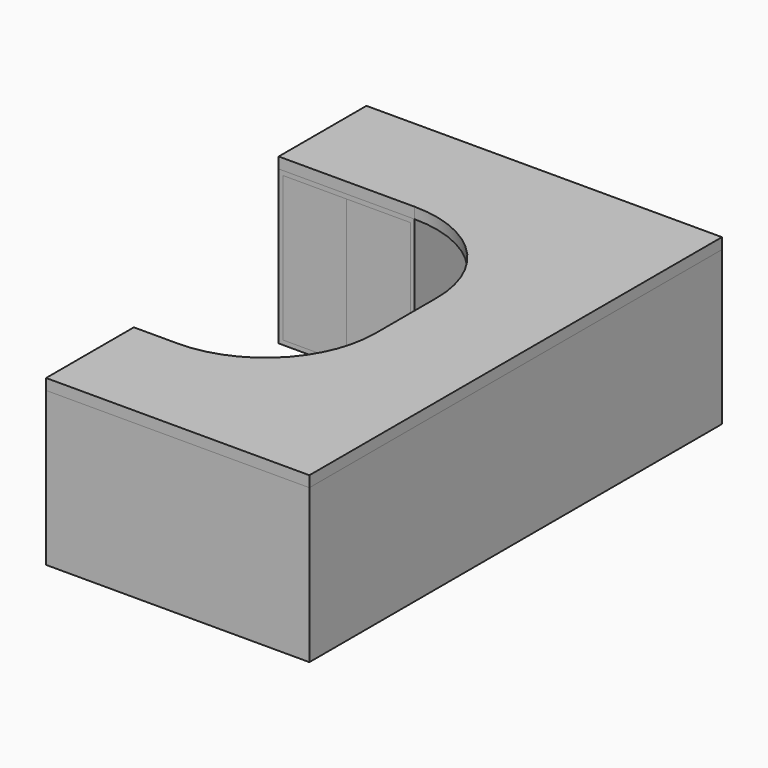
from build123d import *

# Parameters (mm, degrees)
F0_W      = 20
F0_H      = 980
F0_W_2    = 480
F0_H_2    = 350
F1_DEPTH  = 700
F2_START  = 700
F2_DEPTH  = 50
F3_W      = 310
F3_H      = 150
F4_DEPTH  = 480
F5_W      = 290
F5_H      = 660
F6_DEPTH  = 480
F7_W      = 460
F7_H      = 206.6666666667
F8_DEPTH  = 180
F9_DEPTH  = 480
F10_DEPTH = 20
F11_DEPTH = 20
F12_W     = 100
F12_H     = 10
F13_DEPTH = 480


with BuildPart() as f1:
    # F0 (on Top) → F1 (new body)
    with BuildSketch(Plane.XY):
        Polygon((1620, -1175), (1620, -1155), (1600, -1155), (620, -1155), (620, -1175), align=None)
        with Locations((1610, -665)):
            Rectangle(F0_W, F0_H)
        with Locations((1360, 0)):
            Rectangle(F0_W_2, F0_H_2)
        with Locations((1610, 0)):
            Rectangle(F0_W, F0_H_2)
        with Locations((1610, 665)):
            Rectangle(F0_W, F0_H)
        Polygon((620, 1175), (0, 1175), (0, 675), (620, 675), (620, 1155), align=None)
        Polygon((1620, 1175), (620, 1175), (620, 1155), (1600, 1155), (1620, 1155), align=None)
        Polygon((620, -1155), (620, -675), (420, -675), (420, -1175), (620, -1175), align=None)
    extrude(amount=F1_DEPTH)

    # F3 (on face) → F4 (cut, through all)
    with BuildSketch(Plane(origin=(1120, 0, 0), x_dir=(0, -1, 0), z_dir=(-1, 0, 0))):
        with Locations((0, 605)):
            Rectangle(F3_W, F3_H)
        with Locations((0, 435)):
            Rectangle(F3_W, F3_H)
        with Locations((0, 265)):
            Rectangle(F3_W, F3_H)
        with Locations((0, 95)):
            Rectangle(F3_W, F3_H)
    extrude(amount=-F4_DEPTH, mode=Mode.SUBTRACT)

    # F5 (on face) → F6 (cut, through all)
    with BuildSketch(Plane.XZ.offset(-675)):
        with Locations((165, 350)):
            Rectangle(F5_W, F5_H)
        with Locations((455, 350)):
            Rectangle(F5_W, F5_H)
    extrude(amount=-F6_DEPTH, mode=Mode.SUBTRACT)

    # F7 (on face) → F8 (cut, through all)
    with BuildSketch(Plane(origin=(420, 0, 0), x_dir=(0, -1, 0), z_dir=(-1, 0, 0))):
        with Locations((925, 576.6666666667)):
            Rectangle(F7_W, F7_H)
        with Locations((925, 350)):
            Rectangle(F7_W, F7_H)
        with Locations((925, 123.3333333333)):
            Rectangle(F7_W, F7_H)
    extrude(amount=-F8_DEPTH, mode=Mode.SUBTRACT)


with BuildPart() as f2:
    # F0 (on Top) → F2 (new body)
    with BuildSketch(Plane.XY.offset(F2_START)):
        Polygon((620, 1175), (0, 1175), (0, 675), (620, 675), (620, 1155), align=None)
        Polygon((1620, 1175), (620, 1175), (620, 1155), (1600, 1155), (1620, 1155), align=None)
        with BuildLine():
            Line((1600, 1155), (620, 1155))
            Line((620, 1155), (620, 675))
            ThreePointArc((620, 675), (973.5533905933, 528.5533905933), (1120, 175))
            Line((1120, 175), (1600, 175))
            Line((1600, 175), (1600, 1155))
        make_face()
        with Locations((1610, 665)):
            Rectangle(F0_W, F0_H)
        with Locations((1610, 0)):
            Rectangle(F0_W, F0_H_2)
        with Locations((1360, 0)):
            Rectangle(F0_W_2, F0_H_2)
        with Locations((1610, -665)):
            Rectangle(F0_W, F0_H)
        Polygon((1620, -1175), (1620, -1155), (1600, -1155), (620, -1155), (620, -1175), align=None)
        with BuildLine():
            Line((1600, -175), (1120, -175))
            ThreePointArc((1120, -175), (973.5533905933, -528.5533905933), (620, -675))
            Line((620, -675), (620, -1155))
            Line((620, -1155), (1600, -1155))
            Line((1600, -1155), (1600, -175))
        make_face()
        Polygon((620, -1155), (620, -675), (420, -675), (420, -1175), (620, -1175), align=None)
    extrude(amount=F2_DEPTH)


with BuildPart() as f9:
    # F3 (on face) → F9 (new body, through all)
    with BuildSketch(Plane(origin=(1120, 0, 0), x_dir=(0, -1, 0), z_dir=(-1, 0, 0))):
        with Locations((0, 605)):
            Rectangle(F3_W, F3_H)
    extrude(amount=-F9_DEPTH)


with BuildPart() as f9b:
    # F3 (on face) → F9, piece 2 (new body, through all)
    with BuildSketch(Plane(origin=(1120, 0, 0), x_dir=(0, -1, 0), z_dir=(-1, 0, 0))):
        with Locations((0, 435)):
            Rectangle(F3_W, F3_H)
    extrude(amount=-F9_DEPTH)


with BuildPart() as f9c:
    # F3 (on face) → F9, piece 3 (new body, through all)
    with BuildSketch(Plane(origin=(1120, 0, 0), x_dir=(0, -1, 0), z_dir=(-1, 0, 0))):
        with Locations((0, 265)):
            Rectangle(F3_W, F3_H)
    extrude(amount=-F9_DEPTH)


with BuildPart() as f9d:
    # F3 (on face) → F9, piece 4 (new body, through all)
    with BuildSketch(Plane(origin=(1120, 0, 0), x_dir=(0, -1, 0), z_dir=(-1, 0, 0))):
        with Locations((0, 95)):
            Rectangle(F3_W, F3_H)
    extrude(amount=-F9_DEPTH)


with BuildPart() as f10:
    # F5 (on face) → F10 (new body)
    with BuildSketch(Plane.XZ.offset(-675)):
        with Locations((165, 350)):
            Rectangle(F5_W, F5_H)
    extrude(amount=-F10_DEPTH)


with BuildPart() as f11:
    # F5 (on face) → F11 (new body)
    with BuildSketch(Plane.XZ.offset(-675)):
        with Locations((455, 350)):
            Rectangle(F5_W, F5_H)
    extrude(amount=-F11_DEPTH)


with BuildPart() as f13_tool:
    # F12 (on face) → F13 (new body, through all)
    with BuildSketch(Plane(origin=(1120, 0, 0), x_dir=(0, -1, 0), z_dir=(-1, 0, 0))):
        with Locations((0, 655)):
            Rectangle(F12_W, F12_H)
        with Locations((0, 485)):
            Rectangle(F12_W, F12_H)
        with Locations((0, 315)):
            Rectangle(F12_W, F12_H)
        with Locations((0, 145)):
            Rectangle(F12_W, F12_H)
    extrude(amount=-F13_DEPTH)


with BuildPart() as f9_1:
    add(f9.part)

    # F13: cut by f13_tool
    add(f13_tool.part, mode=Mode.SUBTRACT)


with BuildPart() as f9b_1:
    add(f9b.part)

    # F13: cut by f13_tool
    add(f13_tool.part, mode=Mode.SUBTRACT)


with BuildPart() as f9c_1:
    add(f9c.part)

    # F13: cut by f13_tool
    add(f13_tool.part, mode=Mode.SUBTRACT)


with BuildPart() as f9d_1:
    add(f9d.part)

    # F13: cut by f13_tool
    add(f13_tool.part, mode=Mode.SUBTRACT)


solid = Compound([f1.part, f2.part, f10.part, f11.part, f9_1.part, f9b_1.part, f9c_1.part, f9d_1.part])
